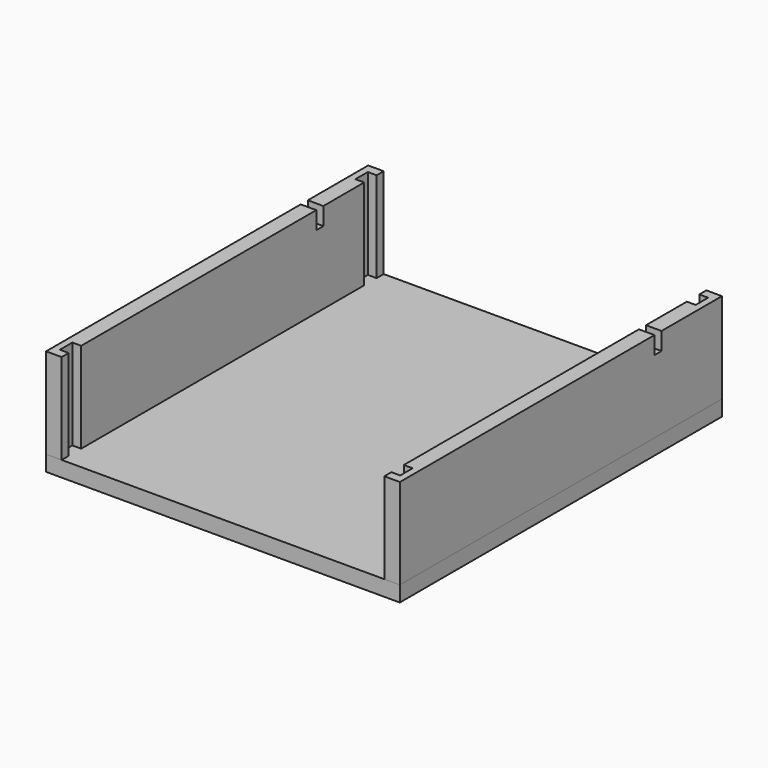
from build123d import *

# Parameters (mm, degrees)
F0_W     = 63.5
F0_H     = 72.263
F1_DEPTH = 2.794
F3_DEPTH = 16.256
F5_DEPTH = 16.256
F6_W     = 1.5875
F6_H     = 3.175
F7_DEPTH = 2.794
F8_W     = 1.5875
F8_H     = 3.175
F9_DEPTH = 2.794


with BuildPart() as f1:
    # F0 (on Top) → F1 (new body)
    with BuildSketch(Plane.XY):
        Rectangle(F0_W, F0_H)
    extrude(amount=F1_DEPTH)


with BuildPart() as f3:
    # F2 (on face) → F3 (new body)
    with BuildSketch(Plane.XY.offset(2.794)):
        Polygon((28.956, 36.1315), (28.956, 34.544), (30.5435, 34.544), (30.5435, 31.75), (28.956, 31.75), (28.956, -31.75), (30.5435, -31.75), (30.5435, -34.544), (28.956, -34.544), (28.956, -36.1315), (31.75, -36.1315), (31.75, 36.1315), align=None)
    extrude(amount=F3_DEPTH)

    # F6 (on face) → F7 (cut, through all)
    with BuildSketch(Plane.YZ.offset(31.75)):
        with Locations((21.79132, 17.4625)):
            Rectangle(F6_W, F6_H)
    extrude(amount=-F7_DEPTH, mode=Mode.SUBTRACT)


with BuildPart() as f5:
    # F4 (on face) → F5 (new body)
    with BuildSketch(Plane.XY.offset(2.794)):
        Polygon((-31.75, -36.1315), (-28.956, -36.1315), (-28.956, -34.544), (-30.5435, -34.544), (-30.5435, -31.75), (-28.956, -31.75), (-28.956, 31.75), (-30.5435, 31.75), (-30.5435, 34.544), (-28.956, 34.544), (-28.956, 36.1315), (-31.75, 36.1315), align=None)
    extrude(amount=F5_DEPTH)

    # F8 (on face) → F9 (cut, through all)
    with BuildSketch(Plane(origin=(-31.75, 0, 0), x_dir=(0, -1, 0), z_dir=(-1, 0, 0))):
        with Locations((-21.79132, 17.4625)):
            Rectangle(F8_W, F8_H)
    extrude(amount=-F9_DEPTH, mode=Mode.SUBTRACT)


solid = Compound([f1.part, f3.part, f5.part])
